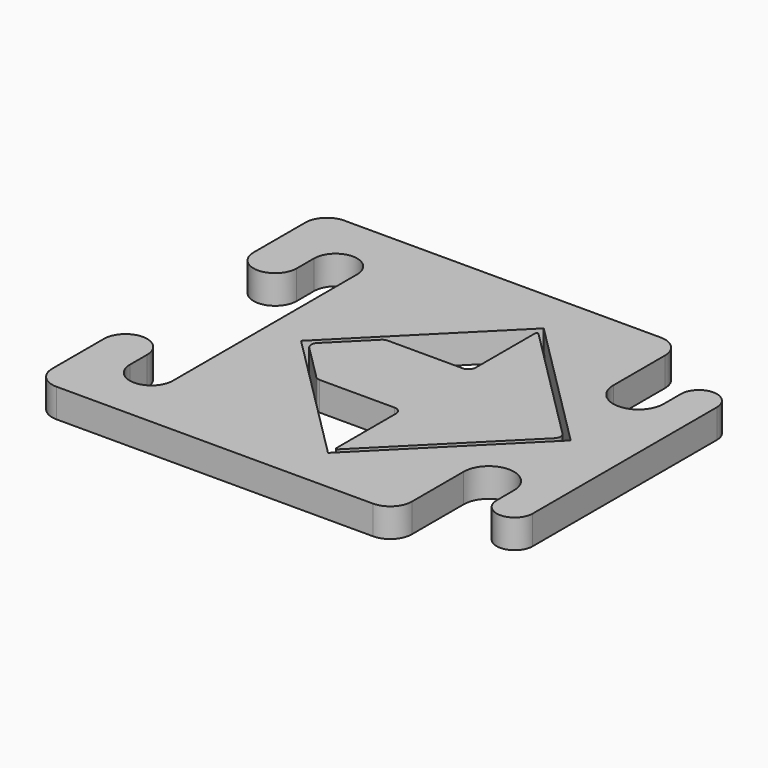
from build123d import *

# Parameters (mm, degrees)
PAD_DEPTH       = 4
POCKET_DEPTH    = 4.001
POCKET001_DEPTH = 3
FILLET_R        = 0.2
FILLET001_R     = 0.2
FILLET002_R     = 1


with BuildPart() as part:
    # Sketch002 → Pad (new body)
    with BuildSketch(Plane.XY):
        with BuildLine():
            ThreePointArc((-5, -13), (-8.5, -9.5), (-12, -13))
            Line((-12, -22), (-12, -13))
            ThreePointArc((-15, -25), (-12.87868, -24.12132), (-12, -22))
            Line((-59, -25), (-15, -25))
            ThreePointArc((-62, -22), (-61.12132, -24.12132), (-59, -25))
            Line((-62, -13), (-62, -22))
            ThreePointArc((-56, -13), (-59, -10), (-62, -13))
            Line((-56, -13), (-56, -16))
            ThreePointArc((-56, -16), (-53, -19), (-50, -16))
            Line((-50, 16), (-50, -16))
            ThreePointArc((-50, 16), (-53, 19), (-56, 16))
            Line((-56, 13), (-56, 16))
            ThreePointArc((-62, 13), (-59, 10), (-56, 13))
            Line((-62, 22), (-62, 13))
            ThreePointArc((-59, 25), (-61.12132, 24.12132), (-62, 22))
            Line((-15, 25), (-59, 25))
            ThreePointArc((-12, 22), (-12.87868, 24.12132), (-15, 25))
            Line((-12, 22), (-12, 13))
            ThreePointArc((-12, 13), (-8.5, 9.5), (-5, 13))
            Line((-5, 13), (-5, 16))
            ThreePointArc((0, 16), (-2.5, 18.5), (-5, 16))
            Line((0, -16), (0, 16))
            ThreePointArc((-5, -16), (-2.5, -18.5), (0, -16))
            Line((-5, -13), (-5, -16))
        make_face()
    extrude(amount=PAD_DEPTH)

    # Sketch001 (on Face26 of Pad) → Pocket (cut, through all)
    with BuildSketch(Plane.XY.offset(4)):
        Polygon((-45, 0), (-26.260408, 18.739592), (-26.260408, 17.739592), (-26.260408, 5.913197), (-38.086803, 5.913197), (-44, 0), (-38.086803, -5.913197), (-26.260408, -5.913197), (-26.260408, -17.739592), (-26.260408, -18.739592), align=None)
        Polygon((-7.520815, 0), (-25.760408, 18.239592), (-25.760408, 17.239592), (-8.520815, 0), (-25.760408, -17.239592), (-25.760408, -18.239592), align=None)
    extrude(amount=-POCKET_DEPTH, mode=Mode.SUBTRACT)

    # Sketch (on Face5 of Pocket) → Pocket001 (cut)
    with BuildSketch(Plane.XY.offset(4)):
        Polygon((-25.760408, -17.239592), (-26.260408, -17.739592), (-26.260408, -18.739592), (-25.760408, -18.239592), align=None)
        Polygon((-26.260408, 18.739592), (-25.760408, 18.239592), (-25.760408, 17.239592), (-26.260408, 17.739592), align=None)
    extrude(amount=-POCKET001_DEPTH, mode=Mode.SUBTRACT)

    # Fillet
    fillet_edges = [part.edges().sort_by_distance(p)[0] for p in [
        (-26.260408, -17.739592, 2.5),
    ]]
    fillet(fillet_edges, radius=FILLET_R)

    # Fillet001
    fillet001_edges = [part.edges().sort_by_distance(p)[0] for p in [
        (-26.260408, 17.739592, 2.5),
    ]]
    fillet(fillet001_edges, radius=FILLET001_R)

    # Fillet002
    fillet002_edges = [part.edges().sort_by_distance(p)[0] for p in [
        (-44, 0, 2),
        (-38.086803, -5.913197, 2),
        (-38.086803, 5.913197, 2),
        (-26.260408, 5.913197, 2),
        (-26.260408, -5.913197, 2),
        (-8.520815, 0, 2),
    ]]
    fillet(fillet002_edges, radius=FILLET002_R)


solid = part.part
